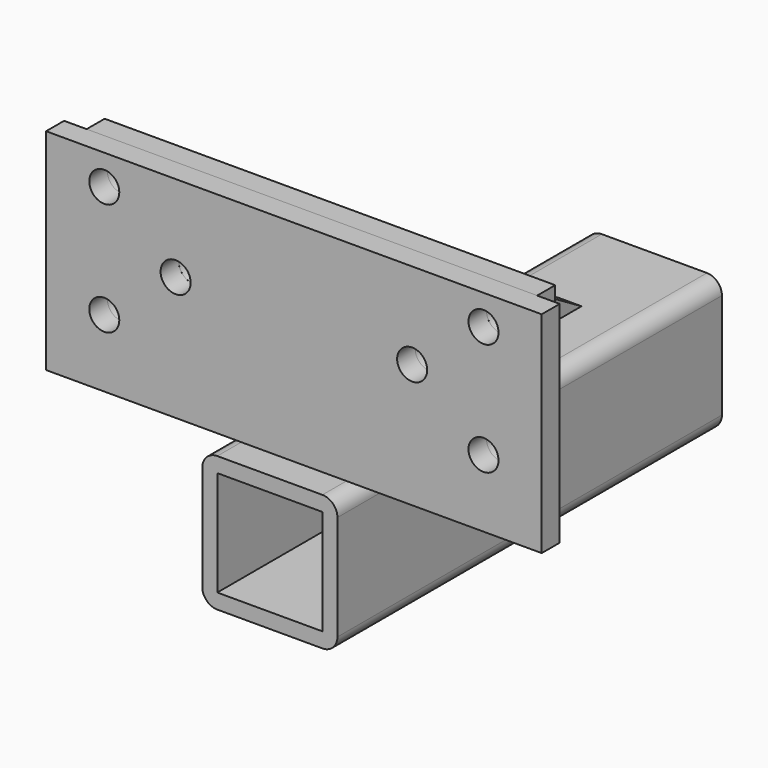
from build123d import *

# Parameters (mm, degrees)
F0_W      = 209.55
F0_H      = 88.9
F1_DEPTH  = 4.7625
F2_R      = 6.35
F3_DEPTH  = 9.526
F4_W      = 190.5
F4_H      = 88.9
F4_R      = 6.35
F5_DEPTH  = 9.525
F7_W      = 44.45
F7_H      = 44.45
F8_DEPTH  = 203.2
F10_DEPTH = 4.7625
F11_R     = 7.9375
F12_DEPTH = 133.351


with BuildPart() as f1:
    # F0 (on Front) → F1 (new body, symmetric)
    with BuildSketch(Plane.XZ):
        Rectangle(F0_W, F0_H)
    extrude(amount=F1_DEPTH, both=True)

    # F2 (on face) → F3 (cut, through all)
    with BuildSketch(Plane.XZ.offset(4.7625)):
        with Locations((-80.16875, 31.75)):
            Circle(F2_R)
        with Locations((-50.00625, 7.9375)):
            Circle(F2_R)
        with Locations((-80.16875, -15.875)):
            Circle(F2_R)
        with Locations((80.16875, 31.75)):
            Circle(F2_R)
        with Locations((50.00625, 7.9375)):
            Circle(F2_R)
        with Locations((80.16875, -15.875)):
            Circle(F2_R)
    extrude(amount=-F3_DEPTH, mode=Mode.SUBTRACT)


with BuildPart() as f5:
    # F4 (on face) → F5 (new body)
    with BuildSketch(Plane(origin=(0, 4.7625, 0), x_dir=(-1, 0, 0), z_dir=(0, 1, 0))):
        Rectangle(F4_W, F4_H)
        with Locations((-80.16875, -15.875)):
            Circle(F4_R, mode=Mode.SUBTRACT)
        with Locations((80.16875, -15.875)):
            Circle(F4_R, mode=Mode.SUBTRACT)
        with Locations((-50.00625, 7.9375)):
            Circle(F4_R, mode=Mode.SUBTRACT)
        with Locations((-80.16875, 31.75)):
            Circle(F4_R, mode=Mode.SUBTRACT)
        with Locations((50.00625, 7.9375)):
            Circle(F4_R, mode=Mode.SUBTRACT)
        with Locations((80.16875, 31.75)):
            Circle(F4_R, mode=Mode.SUBTRACT)
    extrude(amount=F5_DEPTH)


with BuildPart() as f8:
    # F7 (on offset) → F8 (new body)
    with BuildSketch(Plane.XZ.offset(17.4625)):
        with BuildLine():
            Line((-22.225, -101.6), (22.225, -101.6))
            ThreePointArc((22.225, -101.6), (26.7151280605, -99.7401280605), (28.575, -95.25))
            Line((28.575, -95.25), (28.575, -50.8))
            ThreePointArc((28.575, -50.8), (26.7151280605, -46.3098719395), (22.225, -44.45))
            Line((22.225, -44.45), (-22.225, -44.45))
            ThreePointArc((-22.225, -44.45), (-26.7151280605, -46.3098719395), (-28.575, -50.8))
            Line((-28.575, -50.8), (-28.575, -95.25))
            ThreePointArc((-28.575, -95.25), (-26.7151280605, -99.7401280605), (-22.225, -101.6))
        make_face()
        with Locations((0, -73.025)):
            Rectangle(F7_W, F7_H, mode=Mode.SUBTRACT)
    extrude(amount=-F8_DEPTH)

    # F11 (on face) → F12 (cut, through all)
    with BuildSketch(Plane.YZ.offset(28.575)):
        with Locations((53.975, -73.025)):
            Circle(F11_R)
    extrude(amount=-F12_DEPTH, mode=Mode.SUBTRACT)


with BuildPart() as f10:
    # F9 (on Right) → F10 (new body, symmetric)
    with BuildSketch(Plane.YZ):
        Polygon((141.2875, -44.45), (14.2875, 31.75), (14.2875, -44.45), align=None)
    extrude(amount=F10_DEPTH, both=True)


solid = Compound([f1.part, f5.part, f8.part, f10.part])
